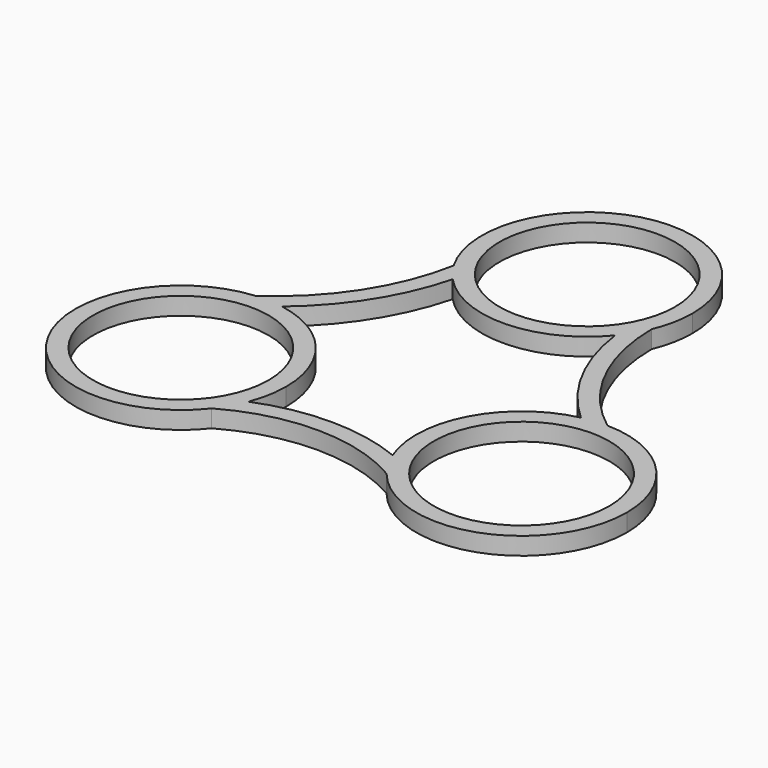
from build123d import *

# Parameters (mm, degrees)
F0_R     = 12.5
F1_DEPTH = 2.5


with BuildPart() as f1:
    # F0 (on Top) → F1 (new body)
    with BuildSketch(Plane.XY):
        with BuildLine():
            ThreePointArc((-10.268852, -19.437235), (-9.505952, -16.766054), (-9.248711, -14))
            ThreePointArc((-9.248711, -14), (-12.767434, -4.347007), (-21.672748, 0.777159))
            ThreePointArc((-21.672748, 0.777159), (-23.636685, 0.987509), (-25.611234, 0.93799))
            ThreePointArc((-25.611234, 0.93799), (-37.424578, -21.169138), (-12.446207, -23.257478))
            ThreePointArc((-12.446207, -23.257478), (-11.216784, -21.427575), (-10.268852, -19.437235))
        make_face()
        with Locations((-24.248711, -14)):
            Circle(F0_R, mode=Mode.SUBTRACT)
        with BuildLine():
            ThreePointArc((-12.932181, 20.400086), (-12.015934, 19.021285), (-10.953327, 17.751848))
            ThreePointArc((-10.953327, 17.751848), (0.479302, 13.00766), (11.585554, 18.472411))
            ThreePointArc((11.585554, 18.472411), (12.843599, 20.251324), (13.83066, 22.193724))
            ThreePointArc((13.83066, 22.193724), (14.704759, 25.038573), (15, 28))
            ThreePointArc((15, 28), (-3.938101, 42.473816), (-12.932181, 20.400086))
        make_face()
        with Locations((0, 28)):
            Circle(F0_R, mode=Mode.SUBTRACT)
        with BuildLine():
            ThreePointArc((20.987296, 0.641146), (11.002415, -6.961845), (10.290137, -19.491649))
            ThreePointArc((10.290137, -19.491649), (11.269807, -21.519843), (12.542126, -23.378479))
            ThreePointArc((12.542126, -23.378479), (29.218682, -28.152717), (39.248711, -14))
            ThreePointArc((39.248711, -14), (34.938362, -3.477103), (24.484529, 0.998146))
            ThreePointArc((24.484529, 0.998146), (22.725418, 0.922452), (20.987296, 0.641146))
        make_face()
        with Locations((24.248711, -14)):
            Circle(F0_R, mode=Mode.SUBTRACT)
        with BuildLine():
            ThreePointArc((13.83066, 22.193724), (12.843599, 20.251324), (11.585554, 18.472411))
            ThreePointArc((11.585554, 18.472411), (14.697021, 8.718748), (20.987296, 0.641146))
            ThreePointArc((20.987296, 0.641146), (22.725418, 0.922452), (24.484529, 0.998146))
            ThreePointArc((24.484529, 0.998146), (16.670945, 10.346031), (13.83066, 22.193724))
        make_face()
        with BuildLine():
            ThreePointArc((10.290137, -19.491649), (0.015921, -17.470131), (-10.268852, -19.437235))
            ThreePointArc((-10.268852, -19.437235), (-11.216784, -21.427575), (-12.446207, -23.257478))
            ThreePointArc((-12.446207, -23.257478), (0.06417, -19.970327), (12.542126, -23.378479))
            ThreePointArc((12.542126, -23.378479), (11.269807, -21.519843), (10.290137, -19.491649))
        make_face()
        with BuildLine():
            ThreePointArc((-25.611234, 0.93799), (-23.636685, 0.987509), (-21.672748, 0.777159))
            ThreePointArc((-21.672748, 0.777159), (-14.971379, 8.417253), (-10.953327, 17.751848))
            ThreePointArc((-10.953327, 17.751848), (-12.015934, 19.021285), (-12.932181, 20.400086))
            ThreePointArc((-12.932181, 20.400086), (-17.314787, 9.394155), (-25.611234, 0.93799))
        make_face()
    extrude(amount=F1_DEPTH)


solid = f1.part
